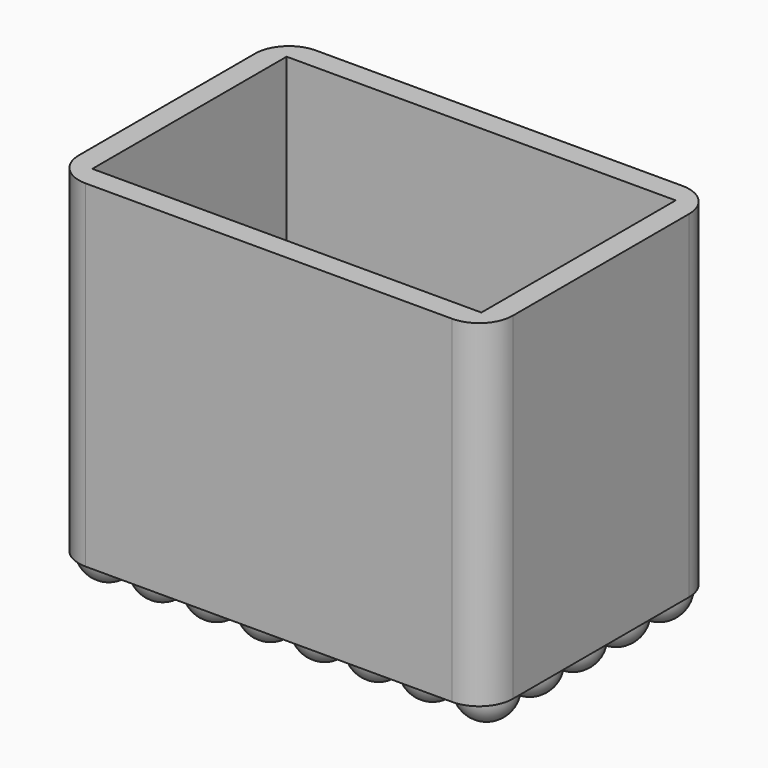
from build123d import *

# Parameters (mm, degrees)
BOX_W             = 34.6
BOX_H             = 21.6
BOX_DEPTH         = 100
BOX002_W          = 34.6
BOX002_H          = 71.6
BOX002_DEPTH      = 100
CYLINDER002_R     = 15
CYLINDER002_DEPTH = 34.6
BOX001_W          = 38.6
BOX001_H          = 25.6
BOX001_DEPTH      = 30
FILLET001_R       = 3
ARRAY002_X_COUNT  = 8
ARRAY002_X_PITCH  = 4.8
ARRAY002_Y_COUNT  = 5
ARRAY002_Y_PITCH  = 4.8


with BuildPart() as internal_cube:
    # Box → Box (new body)
    with BuildSketch(Plane(origin=(-17.3, -10.8, 0), x_dir=(1, 0, 0), z_dir=(0, 0, 1))):
        with Locations((17.3, 10.8)):
            Rectangle(BOX_W, BOX_H)
    extrude(amount=BOX_DEPTH)


with BuildPart() as cylinder_cut:
    # Box002 → Box002 (new body)
    with BuildSketch(Plane(origin=(-17.3, -35.8, 0), x_dir=(1, 0, 0), z_dir=(0, 0, 1))):
        with Locations((17.3, 35.8)):
            Rectangle(BOX002_W, BOX002_H)
    extrude(amount=BOX002_DEPTH)

    # Cut002: cut internal cube
    add(internal_cube.part, mode=Mode.SUBTRACT)


with BuildPart() as extract_fusion:
    # Cylinder002 → Cylinder002 (new body)
    with BuildSketch(Plane(origin=(-17.3, 0, 10), x_dir=(0, 0, -1), z_dir=(1, 0, 0))):
        Circle(CYLINDER002_R)
    extrude(amount=CYLINDER002_DEPTH)

    # Cut003: cut cylinder cut
    add(cylinder_cut.part, mode=Mode.SUBTRACT)

    # Fusion002: union internal cube
    add(internal_cube.part)


with BuildPart() as external_fillet:
    # Box001 → Box001 (new body)
    with BuildSketch(Plane(origin=(-19.3, -12.8, -7), x_dir=(1, 0, 0), z_dir=(0, 0, 1))):
        with Locations((19.3, 12.8)):
            Rectangle(BOX001_W, BOX001_H)
    extrude(amount=BOX001_DEPTH)

    # Fillet001
    fillet001_edges = [external_fillet.edges().sort_by_distance(p)[0] for p in [
        (-19.3, -12.8, 8),
        (-19.3, 12.8, 8),
        (19.3, -12.8, 8),
        (19.3, 12.8, 8),
    ]]
    fillet(fillet001_edges, radius=FILLET001_R)


with BuildPart() as rectangular_leg_pad_cut:
    # Sphere002 → Sphere002 (revolve)
    with BuildSketch(Plane.XZ):
        with BuildLine():
            ThreePointArc((0, -2.4), (2.4, 0), (0, 2.4))
            Line((0, 2.4), (0, -2.4))
        make_face()
    revolve(axis=Axis((0, 0, 0), (0, 0, 1)))

    # Array002 X: rectangular leg pad cut ×8


with BuildPart() as rectangular_leg_pad_cut_1:
    add(rectangular_leg_pad_cut.part)
    with Locations(*[(i * ARRAY002_X_PITCH, 0, 0) for i in range(1, ARRAY002_X_COUNT)]):
        add(rectangular_leg_pad_cut.part)

    # Array002 Y: rectangular leg pad cut ×5


with BuildPart() as rectangular_leg_pad_cut_2:
    add(rectangular_leg_pad_cut_1.part)
    with Locations(*[(0, i * ARRAY002_Y_PITCH, 0) for i in range(1, ARRAY002_Y_COUNT)]):
        add(rectangular_leg_pad_cut_1.part)


with BuildPart() as rectangular_leg_pad_cut_3:
    # Array002 placement: moved
    add(rectangular_leg_pad_cut_2.part.moved(Location((-16.8, -9.6, -7))))

    # Fusion003: union external fillet
    add(external_fillet.part)

    # Cut004: cut extract fusion
    add(extract_fusion.part, mode=Mode.SUBTRACT)


solid = rectangular_leg_pad_cut_3.part
